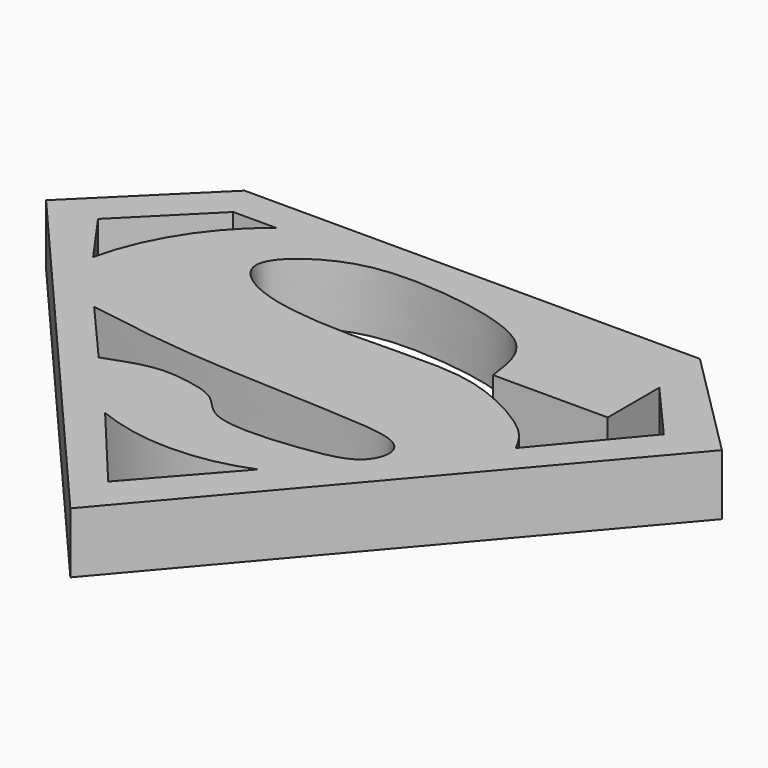
from build123d import *

# Parameters (mm, degrees)
F1_DEPTH = 8


with BuildPart() as f1:
    # F0 (on Top) → F1 (new body)
    with BuildSketch(Plane.XY):
        Polygon((32.3477350175, 31.9038629532), (-27.6202764362, 31.9038629532), (-42.2195754945, 17.4893625081), (2.5947312824, -34.5321930945), (46.8084333099, 17.4431619365), align=None)
        with BuildLine():
            Line((1.9010555698, -27.440706268), (-7.8934114426, -15.7058238983))
            ThreePointArc((-7.8934114426, -15.7058238983), (2.1782573313, -17.6621080608), (12.2499261051, -15.7058238983))
            Line((12.2499261051, -15.7058238983), (1.9010555698, -27.440706268))
        make_face(mode=Mode.SUBTRACT)
        with BuildLine():
            Line((-16.1261186004, -6.4751505852), (-23.5181692988, 2.0257078577))
            add(Edge.make_bspline(
                [(-23.5181692988, 2.0257078577), (-18.8492443141, 1.2570925201), (-8.6978031171, -0.4140744889), (12.2317134041, -0.8647353067), (19.3709212644, -1.749249772), (20.9804488697, -4.3052756433), (19.5185531257, -8.1051532438), (12.8471955838, -9.4318160298), (1.1337662191, -10.3548875068), (-1.2619333787, -5.8032125759), (-5.9642189202, -4.7372891241), (-10.3564989081, -4.325924496), (-14.0992906398, -5.7201421507), (-16.1261186004, -6.4751505852)],
                knots=[0, 0, 0, 0, 0.1350048672, 0.2935352303, 0.3813955924, 0.4332440802, 0.4944511627, 0.5840134929, 0.6989534624, 0.7705777041, 0.8427392681, 0.9148388499, 1, 1, 1, 1], degree=3))
        make_face(mode=Mode.SUBTRACT)
        with BuildLine():
            Line((-35.4449935257, 17.5737030804), (-25.5581252277, 27.4605695158))
            Line((-25.5581252277, 27.4605695158), (-19.9216865003, 27.4605695158))
            ThreePointArc((-19.9216865003, 27.4605695158), (-26.6610566726, 19.9533675619), (-30.5477585644, 10.6436554343))
            Line((-30.5477585644, 10.6436554343), (-35.4449935257, 17.5737030804))
        make_face(mode=Mode.SUBTRACT)
        with BuildLine():
            add(Edge.make_bspline(
                [(17.9876312613, 15.7961975783), (17.6628240293, 18.4311832126), (16.881127971, 24.7726611125), (0.1921827326, 27.6753445172), (-10.1347980175, 26.7512644797), (-18.1533216035, 20.3561240489), (-13.225077053, 14.8389045406), (-0.7743203723, 13.2319238927), (12.1945251067, 14.1874403047), (19.79872732, 12.8848882704), (28.0086520453, 8.3239006904), (29.4054772443, 5.6397714004), (29.9668628722, 4.5610168017)],
                knots=[0, 0, 0, 0, 0.0921160459, 0.2216907226, 0.3338230792, 0.4270669755, 0.5015146316, 0.6199375792, 0.7407614293, 0.8342206311, 0.9333730841, 1, 1, 1, 1], degree=3))
            Line((17.9876312613, 15.7961975783), (33.0918803811, 15.7961975783))
            Line((33.0918803811, 15.7961975783), (33.0918803811, 16.6890583932))
            Line((33.0918803811, 16.6890583932), (33.0918803811, 24.2783855647))
            Line((33.0918803811, 24.2783855647), (39.9371534586, 16.4658427238))
            Line((39.9371534586, 16.4658427238), (29.9668628722, 4.5610168017))
        make_face(mode=Mode.SUBTRACT)
    extrude(amount=F1_DEPTH)


solid = f1.part
